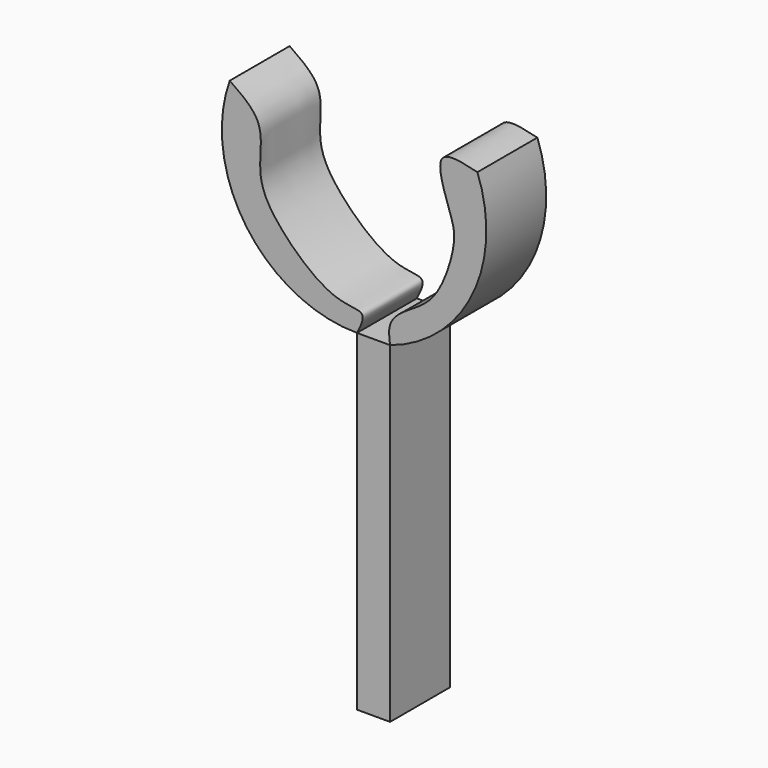
from build123d import *

# Parameters (mm, degrees)
F1_DEPTH = 12.7
F0_W     = 5.6122136302
F0_H     = 56.2660247087


with BuildPart() as f1:
    # F0 (on Front) → F1 (new body)
    with BuildSketch(Plane.XZ):
        with BuildLine():
            add(Edge.make_bspline(
                [(14.821995981, 30.6513141841), (12.1889189933, 31.283159008), (6.5534916308, 32.6354611345), (10.5580563501, 22.3824570518), (11.2940908202, 18.85642848), (8.2609183428, 8.7428968869), (2.1684648523, 6.0179356006), (-0.4363118117, 3.2027177249), (-0.1427585983, 1.0479099604), (0, 0)],
                knots=[0, 0, 0, 0, 0.1481976866, 0.3171792174, 0.4436333366, 0.6300876375, 0.784517979, 0.8952083987, 1, 1, 1, 1], degree=3))
            ThreePointArc((0, 0), (13.9806169759, 12.1487993034), (14.821995981, 30.6513141841))
        make_face()
    extrude(amount=F1_DEPTH)


with BuildPart() as f1b:
    # F0 (on Front) → F1, piece 2 (new body)
    with BuildSketch(Plane.XZ):
        with Locations((-2.8061068151, -28.1330123544)):
            Rectangle(F0_W, F0_H)
    extrude(amount=F1_DEPTH)


with BuildPart() as f1c:
    # F0 (on Front) → F1, piece 3 (new body)
    with BuildSketch(Plane.XZ):
        with BuildLine():
            ThreePointArc((-27.1976441145, 30.6513141841), (-24.3567719766, 9.7257681112), (-5.6122136302, 0))
            add(Edge.make_bspline(
                [(-27.1976441145, 30.6513141841), (-25.1222087019, 29.2170224045), (-20.9722362609, 26.3490597007), (-22.7582250364, 18.4532976866), (-19.7724687707, 11.9382008659), (-10.1219424112, 3.111265905), (-3.6505446779, 3.8992051201), (-4.9977156073, 1.2214363868), (-5.6122136302, 0)],
                knots=[0, 0, 0, 0, 0.1705359553, 0.3409980915, 0.5151774254, 0.7480288767, 0.88506599, 1, 1, 1, 1], degree=3))
        make_face()
    extrude(amount=F1_DEPTH)


solid = Compound([f1.part, f1b.part, f1c.part])
